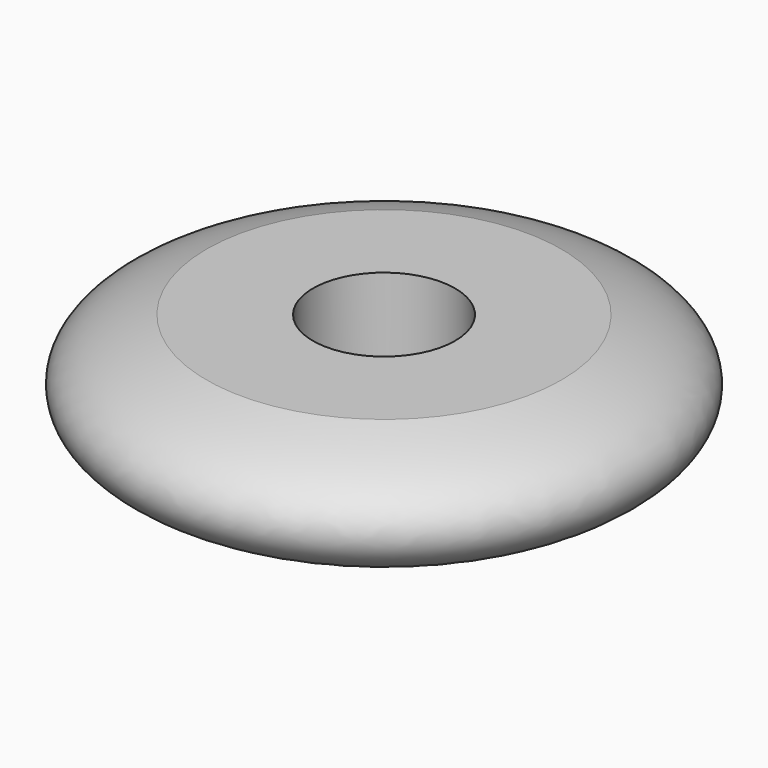
from build123d import *


with BuildPart() as f1:
    # F0 (on Front) → F1 (revolve)
    with BuildSketch(Plane.XZ):
        with BuildLine():
            Line((8.7354283251, 3), (3.5, 3))
            Line((3.5, 3), (3.5, -3))
            Line((3.5, -3), (8.7706364592, -3))
            add(Edge.make_bspline(
                [(8.7354283251, 3), (11.9481916375, 2.1171589192), (14.0284279146, 0), (11.9949525333, -2.1171589192), (8.7706364592, -3)],
                knots=[0.1471401801, 0.1471401801, 0.1471401801, 0.1471401801, 0.5, 0.8528598199, 0.8528598199, 0.8528598199, 0.8528598199], degree=3))
        make_face()
    revolve(axis=Axis((0, 0, -0.4655305529), (0, 0, -1)))


solid = f1.part
